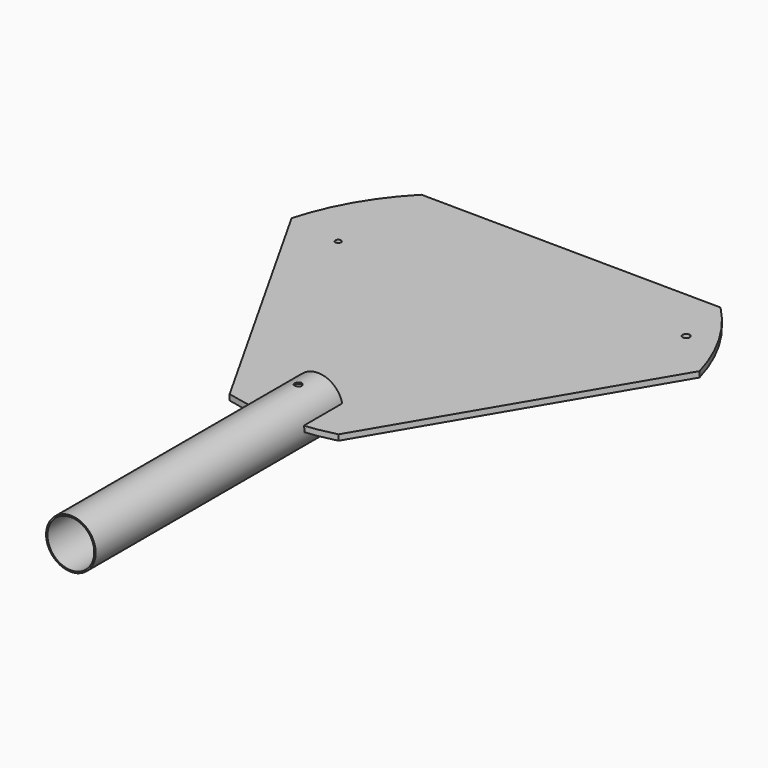
from build123d import *

# Parameters (mm, degrees)
F1_W          = 1
F1_H          = 218.012
F3_R          = 2.5
F3_R_2        = 2
F4_DEPTH      = 4
F5_DEPTH      = 17.501
F5_DEPTH_BACK = 17.501


with BuildPart() as f2:
    # F1 (on Top) → F2 (revolve)
    with BuildSketch(Plane.XY):
        with Locations((-17, -224.006)):
            Rectangle(F1_W, F1_H)
    revolve(axis=Axis((0, -182.075, 0), (0, -1, 0)))

    # F3 (on Top) → F5 (cut, two sides)
    with BuildSketch(Plane.XY) as f5_sk:
        with Locations((0, -132.5)):
            Circle(F3_R)
    extrude(amount=-F5_DEPTH, mode=Mode.SUBTRACT)
    extrude(f5_sk.sketch, amount=F5_DEPTH_BACK, mode=Mode.SUBTRACT)


with BuildPart() as f4:
    # F3 (on Top) → F4 (new body)
    with BuildSketch(Plane.XY):
        with BuildLine():
            Line((-142.9136854684, 40.3062231548), (-38.4057287393, -145))
            ThreePointArc((-38.4057287393, -145), (0, -149.8768585191), (38.4057287393, -145))
            Line((38.4057287393, -145), (146.6316471062, 38.1596570024))
            ThreePointArc((146.6316471062, 38.1596570024), (131.6522661047, 73.858423001), (108.2259183669, 104.6803304806))
            Line((108.2259183669, 104.6803304806), (-104.5079567291, 106.826896633))
            ThreePointArc((-104.5079567291, 106.826896633), (-127.9343044669, 76.0049891534), (-142.9136854684, 40.3062231548))
        make_face()
        with Locations((0, -132.5)):
            Circle(F3_R, mode=Mode.SUBTRACT)
        with Locations((-105.5611399155, 34.734050325)):
            Circle(F3_R_2, mode=Mode.SUBTRACT)
        with Locations((114.7483660014, 66.25)):
            Circle(F3_R, mode=Mode.SUBTRACT)
    extrude(amount=F4_DEPTH)


solid = Compound([f2.part, f4.part])
